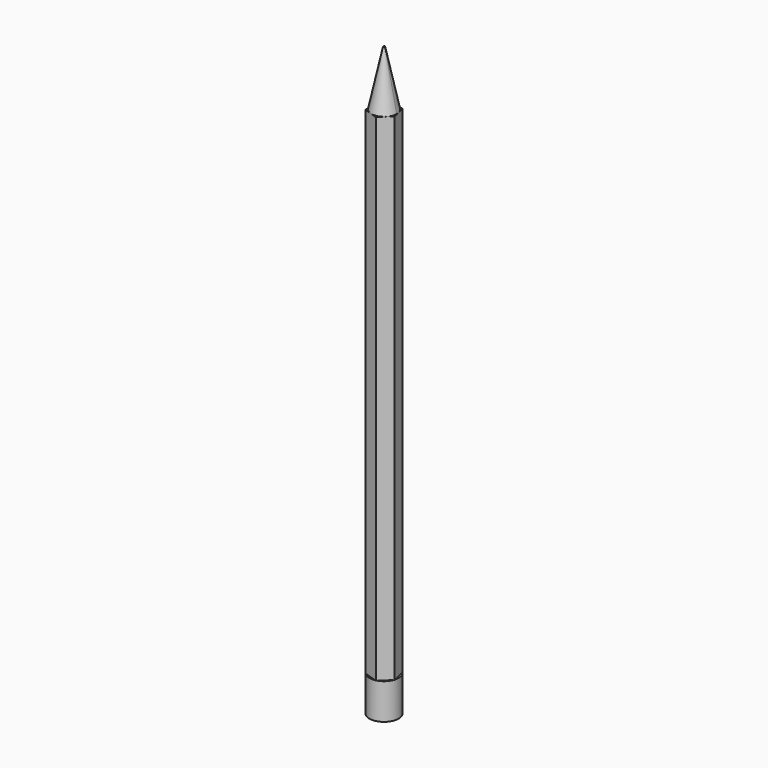
from build123d import *

# Parameters (mm, degrees)
F1_DEPTH = 170.6
F2_R     = 5.0100682876
F3_DEPTH = 12.3
F5_DEPTH = 19
F5_TAPER = 12


with BuildPart() as f1:
    # F0 (on Top) → F1 (new body)
    with BuildSketch(Plane.XY):
        Polygon((-15.8018649923, 17.5146961328), (-12.1233743963, 20.9012440706), (-13.2169656436, 25.7801843433), (-17.9890474869, 27.2725766781), (-21.6675380829, 23.8860287403), (-20.5739468356, 19.0070884677), align=None)
    extrude(amount=F1_DEPTH)

    # F2 (on face) → F3 (join)
    with BuildSketch(Plane(origin=(0, 0, 0), x_dir=(1, 0, 0), z_dir=(0, 0, -1))):
        with Locations((-16.9993620366, -22.4947221577)):
            Circle(F2_R)
    extrude(amount=F3_DEPTH)

    # F4 (on face) → F5 (join)
    with BuildSketch(Plane.XY.offset(170.6)):
        with BuildLine():
            ThreePointArc((-13.7097899359, 25.3264729507), (-19.8282927849, 25.5793027092), (-20.0811225433, 19.4607998602))
            Line((-20.0811225433, 19.4607998602), (-13.7097899359, 25.3264729507))
        make_face()
        with BuildLine():
            Line((-13.7097899359, 25.3264729507), (-20.0811225433, 19.4607998602))
            ThreePointArc((-20.0811225433, 19.4607998602), (-15.3213437492, 18.3597586349), (-12.5653292207, 22.3936364055))
            ThreePointArc((-12.5653292207, 22.3936364055), (-12.8615784691, 23.9677488959), (-13.7097899359, 25.3264729507))
        make_face()
    extrude(amount=F5_DEPTH, taper=F5_TAPER)


solid = f1.part
